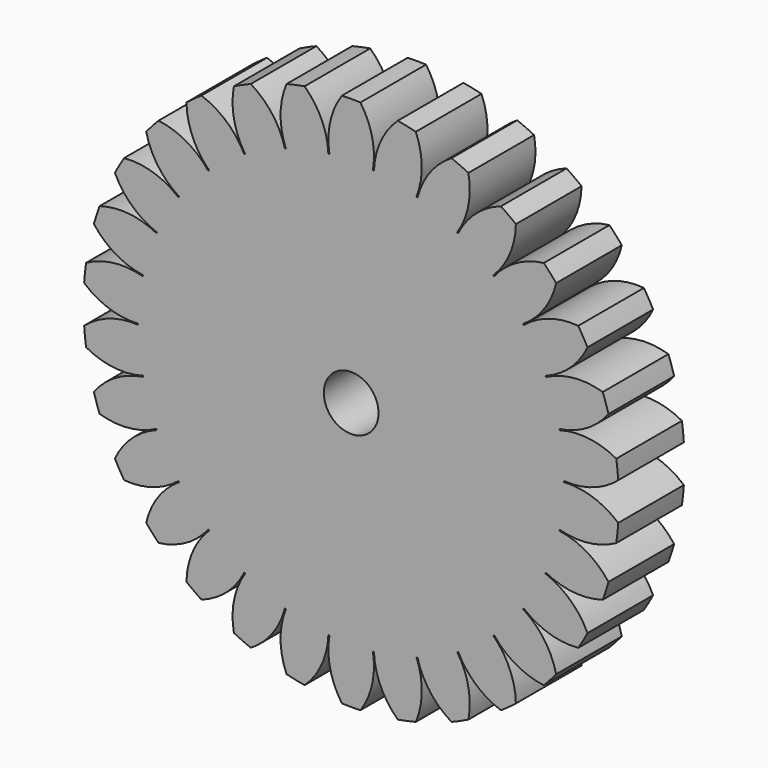
from build123d import *

# Parameters (mm, degrees)
F1_DEPTH = 3
F2_R     = 1
F3_DEPTH = 3.001


with BuildPart() as f1:
    # F0 (on Front) → F1 (new body)
    with BuildSketch(Plane.XZ):
        with BuildLine():
            ThreePointArc((7.784977, -0.019073), (7.784994, -0.009536), (7.785, 0))
            ThreePointArc((7.785, 0), (7.784994, 0.009536), (7.784977, 0.019073))
            ThreePointArc((7.784977, 0.019073), (7.742353, 0.813754), (7.618822, 1.599932))
            ThreePointArc((7.618822, 1.599932), (7.614879, 1.618593), (7.610891, 1.637244))
            ThreePointArc((7.610891, 1.637244), (7.403975, 2.405697), (7.119688, 3.149011))
            ThreePointArc((7.119688, 3.149011), (7.111951, 3.166445), (7.104172, 3.183859))
            ThreePointArc((7.104172, 3.183859), (6.742008, 3.8925), (6.309389, 4.560464))
            ThreePointArc((6.309389, 4.560464), (6.298197, 4.575908), (6.286968, 4.591325))
            ThreePointArc((6.286968, 4.591325), (5.785382, 5.209182), (5.22334, 5.772603))
            ThreePointArc((5.22334, 5.772603), (5.209182, 5.785382), (5.194992, 5.798127))
            ThreePointArc((5.194992, 5.798127), (4.575908, 6.298197), (3.909006, 6.732451))
            ThreePointArc((3.909006, 6.732451), (3.8925, 6.742008), (3.875971, 6.751524))
            ThreePointArc((3.875971, 6.751524), (3.166445, 7.111951), (2.423829, 7.398059))
            ThreePointArc((2.423829, 7.398059), (2.405697, 7.403975), (2.387551, 7.409847))
            ThreePointArc((2.387551, 7.409847), (1.618593, 7.614879), (0.83272, 7.740336))
            ThreePointArc((0.83272, 7.740336), (0.813754, 7.742353), (0.794783, 7.744323))
            ThreePointArc((0.794783, 7.744323), (0, 7.785), (-0.794783, 7.744323))
            ThreePointArc((-0.794783, 7.744323), (-0.813754, 7.742353), (-0.83272, 7.740336))
            ThreePointArc((-0.83272, 7.740336), (-1.618593, 7.614879), (-2.387551, 7.409847))
            ThreePointArc((-2.387551, 7.409847), (-2.405697, 7.403975), (-2.423829, 7.398059))
            ThreePointArc((-2.423829, 7.398059), (-3.166445, 7.111951), (-3.875971, 6.751524))
            ThreePointArc((-3.875971, 6.751524), (-3.8925, 6.742008), (-3.909006, 6.732451))
            ThreePointArc((-3.909006, 6.732451), (-4.575908, 6.298197), (-5.194992, 5.798127))
            ThreePointArc((-5.194992, 5.798127), (-5.209182, 5.785382), (-5.22334, 5.772603))
            ThreePointArc((-5.22334, 5.772603), (-5.785382, 5.209182), (-6.286968, 4.591325))
            ThreePointArc((-6.286968, 4.591325), (-6.298197, 4.575908), (-6.309389, 4.560464))
            ThreePointArc((-6.309389, 4.560464), (-6.742008, 3.8925), (-7.104172, 3.183859))
            ThreePointArc((-7.104172, 3.183859), (-7.111951, 3.166445), (-7.119688, 3.149011))
            ThreePointArc((-7.119688, 3.149011), (-7.403975, 2.405697), (-7.610891, 1.637244))
            ThreePointArc((-7.610891, 1.637244), (-7.614879, 1.618593), (-7.618822, 1.599932))
            ThreePointArc((-7.618822, 1.599932), (-7.742353, 0.813754), (-7.784977, 0.019073))
            ThreePointArc((-7.784977, 0.019073), (-7.785, 0), (-7.784977, -0.019073))
            ThreePointArc((-7.784977, -0.019073), (-7.742353, -0.813754), (-7.618822, -1.599932))
            ThreePointArc((-7.618822, -1.599932), (-7.614879, -1.618593), (-7.610891, -1.637244))
            ThreePointArc((-7.610891, -1.637244), (-7.403975, -2.405697), (-7.119688, -3.149011))
            ThreePointArc((-7.119688, -3.149011), (-7.111951, -3.166445), (-7.104172, -3.183859))
            ThreePointArc((-7.104172, -3.183859), (-6.742008, -3.8925), (-6.309389, -4.560464))
            ThreePointArc((-6.309389, -4.560464), (-6.298197, -4.575908), (-6.286968, -4.591325))
            ThreePointArc((-6.286968, -4.591325), (-5.785382, -5.209182), (-5.22334, -5.772603))
            ThreePointArc((-5.22334, -5.772603), (-5.209182, -5.785382), (-5.194992, -5.798127))
            ThreePointArc((-5.194992, -5.798127), (-4.575908, -6.298197), (-3.909006, -6.732451))
            ThreePointArc((-3.909006, -6.732451), (-3.8925, -6.742008), (-3.875971, -6.751524))
            ThreePointArc((-3.875971, -6.751524), (-3.166445, -7.111951), (-2.423829, -7.398059))
            ThreePointArc((-2.423829, -7.398059), (-2.405697, -7.403975), (-2.387551, -7.409847))
            ThreePointArc((-2.387551, -7.409847), (-1.618593, -7.614879), (-0.83272, -7.740336))
            ThreePointArc((-0.83272, -7.740336), (-0.813754, -7.742353), (-0.794783, -7.744323))
            ThreePointArc((-0.794783, -7.744323), (0, -7.785), (0.794783, -7.744323))
            ThreePointArc((0.794783, -7.744323), (0.813754, -7.742353), (0.83272, -7.740336))
            ThreePointArc((0.83272, -7.740336), (1.618593, -7.614879), (2.387551, -7.409847))
            ThreePointArc((2.387551, -7.409847), (2.405697, -7.403975), (2.423829, -7.398059))
            ThreePointArc((2.423829, -7.398059), (3.166445, -7.111951), (3.875971, -6.751524))
            ThreePointArc((3.875971, -6.751524), (3.8925, -6.742008), (3.909006, -6.732451))
            ThreePointArc((3.909006, -6.732451), (4.575908, -6.298197), (5.194992, -5.798127))
            ThreePointArc((5.194992, -5.798127), (5.209182, -5.785382), (5.22334, -5.772603))
            ThreePointArc((5.22334, -5.772603), (5.785382, -5.209182), (6.286968, -4.591325))
            ThreePointArc((6.286968, -4.591325), (6.298197, -4.575908), (6.309389, -4.560464))
            ThreePointArc((6.309389, -4.560464), (6.742008, -3.8925), (7.104172, -3.183859))
            ThreePointArc((7.104172, -3.183859), (7.111951, -3.166445), (7.119688, -3.149011))
            ThreePointArc((7.119688, -3.149011), (7.403975, -2.405697), (7.610891, -1.637244))
            ThreePointArc((7.610891, -1.637244), (7.614879, -1.618593), (7.618822, -1.599932))
            ThreePointArc((7.618822, -1.599932), (7.742353, -0.813754), (7.784977, -0.019073))
        make_face()
        with BuildLine():
            ThreePointArc((7.618822, 1.599932), (7.742353, 0.813754), (7.784977, 0.019073))
            ThreePointArc((7.784977, 0.019073), (8.838657, 0.158336), (9.760876, 0.686681))
            ThreePointArc((9.760876, 0.686681), (9.731397, 1.022811), (9.690346, 1.357725))
            ThreePointArc((9.690346, 1.357725), (8.678431, 1.682784), (7.618822, 1.599932))
        make_face()
        with BuildLine():
            ThreePointArc((9.760876, -0.686681), (8.838657, -0.158336), (7.784977, -0.019073))
            ThreePointArc((7.784977, -0.019073), (7.742353, -0.813754), (7.618822, -1.599932))
            ThreePointArc((7.618822, -1.599932), (8.678431, -1.682784), (9.690346, -1.357725))
            ThreePointArc((9.690346, -1.357725), (9.731397, -1.022811), (9.760876, -0.686681))
        make_face()
        with BuildLine():
            ThreePointArc((7.119688, 3.149011), (7.403975, 2.405697), (7.610891, 1.637244))
            ThreePointArc((7.610891, 1.637244), (8.612591, 1.992536), (9.404808, 2.701076))
            ThreePointArc((9.404808, 2.701076), (9.306088, 3.023731), (9.196302, 3.342791))
            ThreePointArc((9.196302, 3.342791), (8.138916, 3.450359), (7.119688, 3.149011))
        make_face()
        with BuildLine():
            ThreePointArc((9.404808, -2.701076), (8.612591, -1.992536), (7.610891, -1.637244))
            ThreePointArc((7.610891, -1.637244), (7.403975, -2.405697), (7.119688, -3.149011))
            ThreePointArc((7.119688, -3.149011), (8.138916, -3.450359), (9.196302, -3.342791))
            ThreePointArc((9.196302, -3.342791), (9.306088, -3.023731), (9.404808, -2.701076))
        make_face()
        with BuildLine():
            ThreePointArc((6.309389, 4.560464), (6.742008, 3.8925), (7.104172, 3.183859))
            ThreePointArc((7.104172, 3.183859), (8.010114, 3.739652), (8.637705, 4.59742))
            ThreePointArc((8.637705, 4.59742), (8.474059, 4.8925), (8.300335, 5.181762))
            ThreePointArc((8.300335, 5.181762), (7.243691, 5.067136), (6.309389, 4.560464))
        make_face()
        with BuildLine():
            ThreePointArc((8.637705, -4.59742), (8.010114, -3.739652), (7.104172, -3.183859))
            ThreePointArc((7.104172, -3.183859), (6.742008, -3.8925), (6.309389, -4.560464))
            ThreePointArc((6.309389, -4.560464), (7.243691, -5.067136), (8.300335, -5.181762))
            ThreePointArc((8.300335, -5.181762), (8.474059, -4.8925), (8.637705, -4.59742))
        make_face()
        with BuildLine():
            ThreePointArc((5.22334, 5.772603), (5.785382, 5.209182), (6.286968, 4.591325))
            ThreePointArc((6.286968, 4.591325), (7.057556, 5.323328), (7.493093, 6.292835))
            ThreePointArc((7.493093, 6.292835), (7.271672, 6.547443), (7.041604, 6.794265))
            ThreePointArc((7.041604, 6.794265), (6.031882, 6.462455), (5.22334, 5.772603))
        make_face()
        with BuildLine():
            ThreePointArc((7.493093, -6.292835), (7.057556, -5.323328), (6.286968, -4.591325))
            ThreePointArc((6.286968, -4.591325), (5.785382, -5.209182), (5.22334, -5.772603))
            ThreePointArc((5.22334, -5.772603), (6.031882, -6.462455), (7.041604, -6.794265))
            ThreePointArc((7.041604, -6.794265), (7.271672, -6.547443), (7.493093, -6.292835))
        make_face()
        with BuildLine():
            ThreePointArc((3.909006, 6.732451), (4.575908, 6.298197), (5.194992, 5.798127))
            ThreePointArc((5.194992, 5.798127), (5.79655, 6.674349), (6.020997, 7.713224))
            ThreePointArc((6.020997, 7.713224), (5.751479, 7.916231), (5.475121, 8.109826))
            ThreePointArc((5.475121, 8.109826), (4.556451, 7.575334), (3.909006, 6.732451))
        make_face()
        with BuildLine():
            ThreePointArc((6.020997, -7.713224), (5.79655, -6.674349), (5.194992, -5.798127))
            ThreePointArc((5.194992, -5.798127), (4.575908, -6.298197), (3.909006, -6.732451))
            ThreePointArc((3.909006, -6.732451), (4.556451, -7.575334), (5.475121, -8.109826))
            ThreePointArc((5.475121, -8.109826), (5.751479, -7.916231), (6.020997, -7.713224))
        make_face()
        with BuildLine():
            ThreePointArc((2.423829, 7.398059), (3.166445, 7.111951), (3.875971, 6.751524))
            ThreePointArc((3.875971, 6.751524), (4.282206, 7.733669), (4.285755, 8.796507))
            ThreePointArc((4.285755, 8.796507), (3.979918, 8.939042), (3.669349, 9.070948))
            ThreePointArc((3.669349, 9.070948), (2.881881, 8.357134), (2.423829, 7.398059))
        make_face()
        with BuildLine():
            ThreePointArc((4.285755, -8.796507), (4.282206, -7.733669), (3.875971, -6.751524))
            ThreePointArc((3.875971, -6.751524), (3.166445, -7.111951), (2.423829, -7.398059))
            ThreePointArc((2.423829, -7.398059), (2.881881, -8.357134), (3.669349, -9.070948))
            ThreePointArc((3.669349, -9.070948), (3.979918, -8.939042), (4.285755, -8.796507))
        make_face()
        with BuildLine():
            ThreePointArc((0.83272, 7.740336), (1.618593, 7.614879), (2.387551, 7.409847))
            ThreePointArc((2.387551, 7.409847), (2.580709, 8.454991), (2.363204, 9.495341))
            ThreePointArc((2.363204, 9.495341), (2.034416, 9.571174), (1.703209, 9.635627))
            ThreePointArc((1.703209, 9.635627), (1.081359, 8.773687), (0.83272, 7.740336))
        make_face()
        with BuildLine():
            ThreePointArc((2.363204, -9.495341), (2.580709, -8.454991), (2.387551, -7.409847))
            ThreePointArc((2.387551, -7.409847), (1.618593, -7.614879), (0.83272, -7.740336))
            ThreePointArc((0.83272, -7.740336), (1.081359, -8.773687), (1.703209, -9.635627))
            ThreePointArc((1.703209, -9.635627), (2.034416, -9.571174), (2.363204, -9.495341))
        make_face()
        with BuildLine():
            ThreePointArc((-0.794783, 7.744323), (0, 7.785), (0.794783, 7.744323))
            ThreePointArc((0.794783, 7.744323), (0.766423, 8.806788), (0.33737, 9.779182))
            ThreePointArc((0.33737, 9.779182), (0, 9.785), (-0.33737, 9.779182))
            ThreePointArc((-0.33737, 9.779182), (-0.766423, 8.806788), (-0.794783, 7.744323))
        make_face()
        with BuildLine():
            ThreePointArc((0.33737, -9.779182), (0.766423, -8.806788), (0.794783, -7.744323))
            ThreePointArc((0.794783, -7.744323), (0, -7.785), (-0.794783, -7.744323))
            ThreePointArc((-0.794783, -7.744323), (-0.766423, -8.806788), (-0.33737, -9.779182))
            ThreePointArc((-0.33737, -9.779182), (0, -9.785), (0.33737, -9.779182))
        make_face()
        with BuildLine():
            ThreePointArc((-2.387551, 7.409847), (-1.618593, 7.614879), (-0.83272, 7.740336))
            ThreePointArc((-0.83272, 7.740336), (-1.081359, 8.773687), (-1.703209, 9.635627))
            ThreePointArc((-1.703209, 9.635627), (-2.034416, 9.571174), (-2.363204, 9.495341))
            ThreePointArc((-2.363204, 9.495341), (-2.580709, 8.454991), (-2.387551, 7.409847))
        make_face()
        with BuildLine():
            ThreePointArc((-1.703209, -9.635627), (-1.081359, -8.773687), (-0.83272, -7.740336))
            ThreePointArc((-0.83272, -7.740336), (-1.618593, -7.614879), (-2.387551, -7.409847))
            ThreePointArc((-2.387551, -7.409847), (-2.580709, -8.454991), (-2.363204, -9.495341))
            ThreePointArc((-2.363204, -9.495341), (-2.034416, -9.571174), (-1.703209, -9.635627))
        make_face()
        with BuildLine():
            ThreePointArc((-3.875971, 6.751524), (-3.166445, 7.111951), (-2.423829, 7.398059))
            ThreePointArc((-2.423829, 7.398059), (-2.881881, 8.357134), (-3.669349, 9.070948))
            ThreePointArc((-3.669349, 9.070948), (-3.979918, 8.939042), (-4.285755, 8.796507))
            ThreePointArc((-4.285755, 8.796507), (-4.282206, 7.733669), (-3.875971, 6.751524))
        make_face()
        with BuildLine():
            ThreePointArc((-3.669349, -9.070948), (-2.881881, -8.357134), (-2.423829, -7.398059))
            ThreePointArc((-2.423829, -7.398059), (-3.166445, -7.111951), (-3.875971, -6.751524))
            ThreePointArc((-3.875971, -6.751524), (-4.282206, -7.733669), (-4.285755, -8.796507))
            ThreePointArc((-4.285755, -8.796507), (-3.979918, -8.939042), (-3.669349, -9.070948))
        make_face()
        with BuildLine():
            ThreePointArc((-5.194992, 5.798127), (-4.575908, 6.298197), (-3.909006, 6.732451))
            ThreePointArc((-3.909006, 6.732451), (-4.556451, 7.575334), (-5.475121, 8.109826))
            ThreePointArc((-5.475121, 8.109826), (-5.751479, 7.916231), (-6.020997, 7.713224))
            ThreePointArc((-6.020997, 7.713224), (-5.79655, 6.674349), (-5.194992, 5.798127))
        make_face()
        with BuildLine():
            ThreePointArc((-5.475121, -8.109826), (-4.556451, -7.575334), (-3.909006, -6.732451))
            ThreePointArc((-3.909006, -6.732451), (-4.575908, -6.298197), (-5.194992, -5.798127))
            ThreePointArc((-5.194992, -5.798127), (-5.79655, -6.674349), (-6.020997, -7.713224))
            ThreePointArc((-6.020997, -7.713224), (-5.751479, -7.916231), (-5.475121, -8.109826))
        make_face()
        with BuildLine():
            ThreePointArc((-6.286968, 4.591325), (-5.785382, 5.209182), (-5.22334, 5.772603))
            ThreePointArc((-5.22334, 5.772603), (-6.031882, 6.462455), (-7.041604, 6.794265))
            ThreePointArc((-7.041604, 6.794265), (-7.271672, 6.547443), (-7.493093, 6.292835))
            ThreePointArc((-7.493093, 6.292835), (-7.057556, 5.323328), (-6.286968, 4.591325))
        make_face()
        with BuildLine():
            ThreePointArc((-7.041604, -6.794265), (-6.031882, -6.462455), (-5.22334, -5.772603))
            ThreePointArc((-5.22334, -5.772603), (-5.785382, -5.209182), (-6.286968, -4.591325))
            ThreePointArc((-6.286968, -4.591325), (-7.057556, -5.323328), (-7.493093, -6.292835))
            ThreePointArc((-7.493093, -6.292835), (-7.271672, -6.547443), (-7.041604, -6.794265))
        make_face()
        with BuildLine():
            ThreePointArc((-7.104172, 3.183859), (-6.742008, 3.8925), (-6.309389, 4.560464))
            ThreePointArc((-6.309389, 4.560464), (-7.243691, 5.067136), (-8.300335, 5.181762))
            ThreePointArc((-8.300335, 5.181762), (-8.474059, 4.8925), (-8.637705, 4.59742))
            ThreePointArc((-8.637705, 4.59742), (-8.010114, 3.739652), (-7.104172, 3.183859))
        make_face()
        with BuildLine():
            ThreePointArc((-8.300335, -5.181762), (-7.243691, -5.067136), (-6.309389, -4.560464))
            ThreePointArc((-6.309389, -4.560464), (-6.742008, -3.8925), (-7.104172, -3.183859))
            ThreePointArc((-7.104172, -3.183859), (-8.010114, -3.739652), (-8.637705, -4.59742))
            ThreePointArc((-8.637705, -4.59742), (-8.474059, -4.8925), (-8.300335, -5.181762))
        make_face()
        with BuildLine():
            ThreePointArc((-7.610891, 1.637244), (-7.403975, 2.405697), (-7.119688, 3.149011))
            ThreePointArc((-7.119688, 3.149011), (-8.138916, 3.450359), (-9.196302, 3.342791))
            ThreePointArc((-9.196302, 3.342791), (-9.306088, 3.023731), (-9.404808, 2.701076))
            ThreePointArc((-9.404808, 2.701076), (-8.612591, 1.992536), (-7.610891, 1.637244))
        make_face()
        with BuildLine():
            ThreePointArc((-9.196302, -3.342791), (-8.138916, -3.450359), (-7.119688, -3.149011))
            ThreePointArc((-7.119688, -3.149011), (-7.403975, -2.405697), (-7.610891, -1.637244))
            ThreePointArc((-7.610891, -1.637244), (-8.612591, -1.992536), (-9.404808, -2.701076))
            ThreePointArc((-9.404808, -2.701076), (-9.306088, -3.023731), (-9.196302, -3.342791))
        make_face()
        with BuildLine():
            ThreePointArc((-7.784977, 0.019073), (-7.742353, 0.813754), (-7.618822, 1.599932))
            ThreePointArc((-7.618822, 1.599932), (-8.678431, 1.682784), (-9.690346, 1.357725))
            ThreePointArc((-9.690346, 1.357725), (-9.731397, 1.022811), (-9.760876, 0.686681))
            ThreePointArc((-9.760876, 0.686681), (-8.838657, 0.158336), (-7.784977, 0.019073))
        make_face()
        with BuildLine():
            ThreePointArc((-9.690346, -1.357725), (-8.678431, -1.682784), (-7.618822, -1.599932))
            ThreePointArc((-7.618822, -1.599932), (-7.742353, -0.813754), (-7.784977, -0.019073))
            ThreePointArc((-7.784977, -0.019073), (-8.838657, -0.158336), (-9.760876, -0.686681))
            ThreePointArc((-9.760876, -0.686681), (-9.731397, -1.022811), (-9.690346, -1.357725))
        make_face()
    extrude(amount=F1_DEPTH)

    # F2 (on face) → F3 (cut, through all)
    with BuildSketch(Plane(origin=(0, 0, 0), x_dir=(-1, 0, 0), z_dir=(0, 1, 0))):
        Circle(F2_R)
    extrude(amount=-F3_DEPTH, mode=Mode.SUBTRACT)


with BuildPart() as f4_1:
    # F4: copy of F1
    add(f1.part)


solid = f1.part
